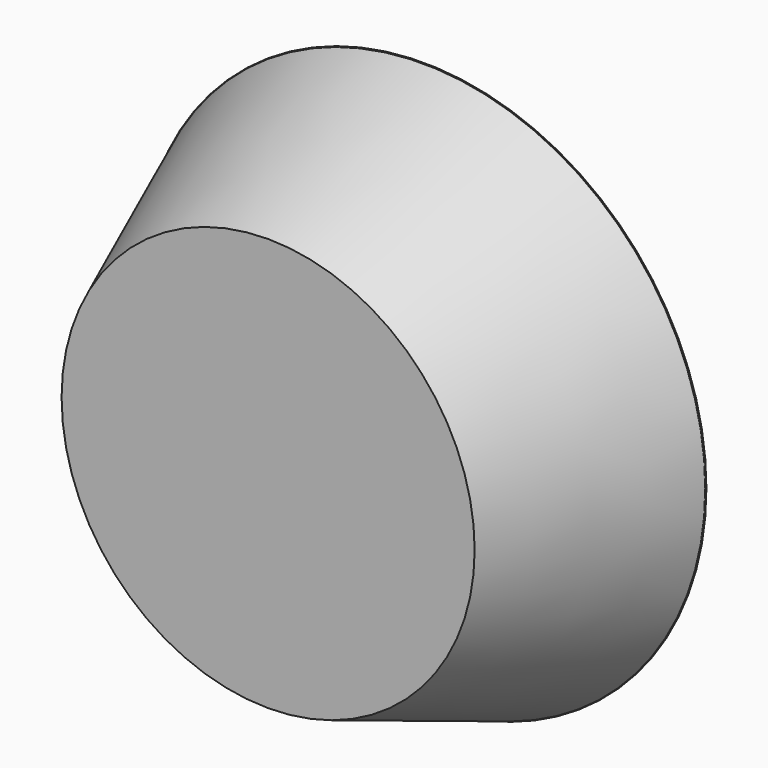
from build123d import *

# Parameters (mm, degrees)
F0_R       = 73.8450197524
F1_DEPTH   = 50.8
F2_R       = 73.8450197524
F2_R_2     = 53.9474257016
F3_DEPTH   = 50.546
F1_FACE1_R = 73.8450197524
F1_FACE_R  = 53.9474257016


with BuildPart() as f1:
    # F0 (on Front) → F1 (new body)
    with BuildSketch(Plane.XZ):
        Circle(F0_R)
    extrude(amount=F1_DEPTH)

    # F2 (on face) → F3 (cut)
    with BuildSketch(Plane.XZ.offset(50.8)):
        Circle(F2_R)
        Circle(F2_R_2, mode=Mode.SUBTRACT)
    extrude(amount=-F3_DEPTH, mode=Mode.SUBTRACT)

    # F1_face1 (on face) → F4 section 0
    with BuildSketch(Plane(origin=(0, 0, 0), x_dir=(1, 0, 0), z_dir=(0, 1, 0))):
        Circle(F1_FACE1_R)
    # F1_face (on face) → F4 section 1
    with BuildSketch(Plane.XZ.offset(50.8)):
        Circle(F1_FACE_R)
    loft()


solid = f1.part
